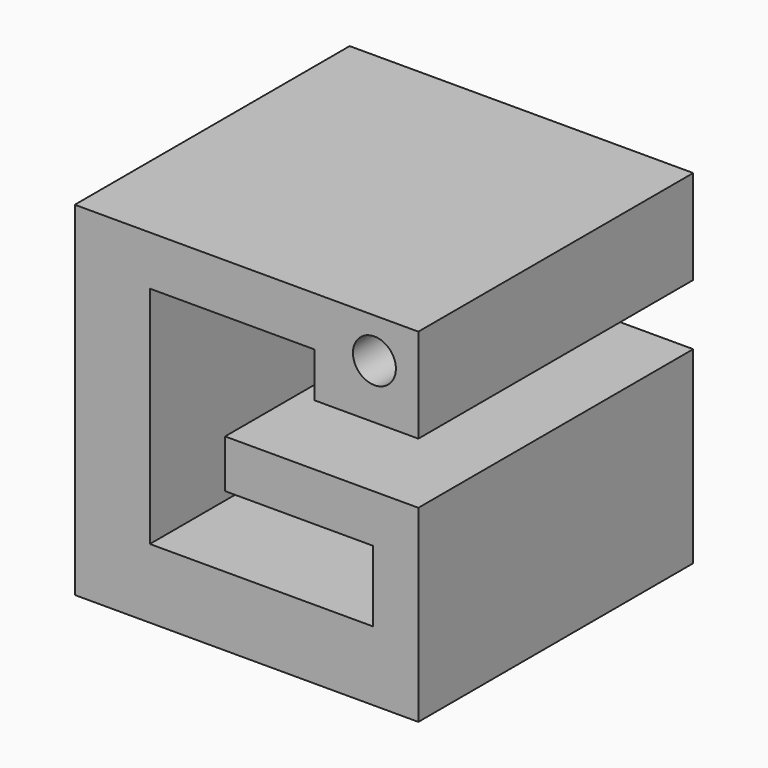
from build123d import *

# Parameters (mm, degrees)
F0_R     = 1.5875
F1_DEPTH = 25.4


with BuildPart() as f1:
    # F0 (on Front) → F1 (new body)
    with BuildSketch(Plane.XZ):
        Polygon((0, 25.4), (0, 0), (25.4, 0), (25.4, 5.125011), (22.046786, 5.125011), (5.55021, 5.125011), (5.55021, 21.746561), (17.73518, 21.746561), (17.73518, 18.43475), (25.4, 18.43475), (25.4, 25.4), align=None)
        with Locations((22.151161, 22.445666)):
            Circle(F0_R, mode=Mode.SUBTRACT)
        Polygon((22.046786, 5.125011), (25.4, 5.125011), (25.4, 9.061695), (25.4, 10.373922), (22.046786, 10.373922), align=None)
        Polygon((25.4, 10.373922), (25.4, 13.935683), (11.111556, 13.935683), (11.111556, 10.373922), (22.046786, 10.373922), align=None)
    extrude(amount=F1_DEPTH)


solid = f1.part
